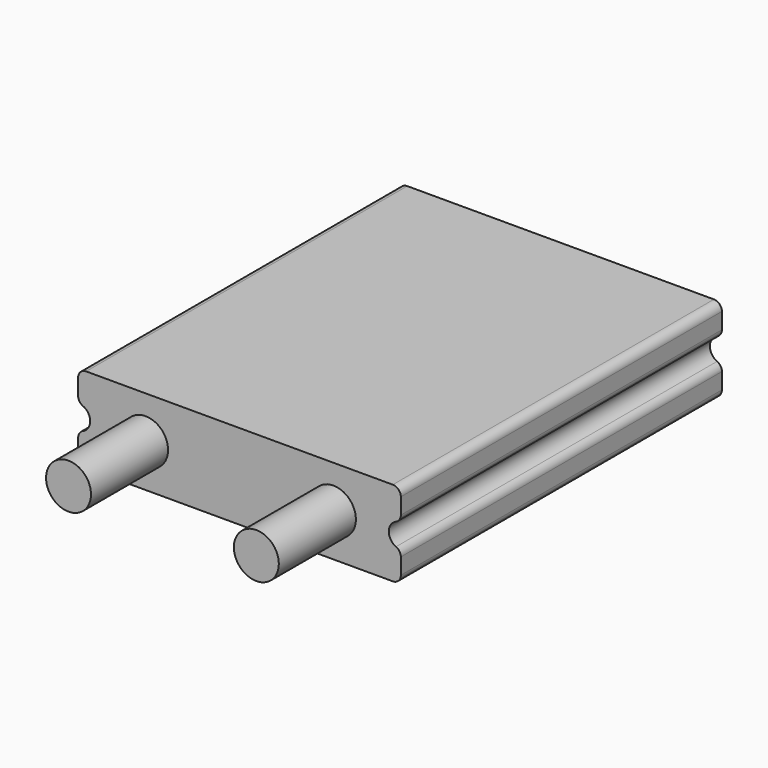
from build123d import *

# Parameters (mm, degrees)
F1_DEPTH = 25
F2_R     = 1.4
F3_DEPTH = 6
F4_R     = 0.5


with BuildPart() as f1:
    # F0 (on Front) → F1 (new body)
    with BuildSketch(Plane.XZ):
        with BuildLine():
            Line((0, 1.9), (0, 0))
            Line((0, 0), (20.1, 0))
            Line((20.1, 0), (20.1, 1.9))
            ThreePointArc((20.1, 1.9), (19.35, 2.65), (20.1, 3.4))
            Line((20.1, 3.4), (20.1, 5.3))
            Line((20.1, 5.3), (0, 5.3))
            Line((0, 5.3), (0, 3.4))
            ThreePointArc((0, 3.4), (0.75, 2.65), (0, 1.9))
        make_face()
    extrude(amount=F1_DEPTH)

    # F2 (on face) → F3 (join)
    with BuildSketch(Plane.XZ.offset(25)):
        with Locations((4.2, 2.65)):
            Circle(F2_R)
        with Locations((15.9, 2.65)):
            Circle(F2_R)
    extrude(amount=F3_DEPTH)

    # F4
    f4_edges = [f1.edges().sort_by_distance(p)[0] for p in [
        (20.1, -12.5, 5.3),
        (20.1, -12.5, 3.4),
        (20.1, -12.5, 1.9),
        (20.1, -12.5, 0),
        (0, -12.5, 5.3),
        (0, -12.5, 0),
        (0, -12.5, 1.9),
        (0, -12.5, 3.4),
    ]]
    fillet(f4_edges, radius=F4_R)


solid = f1.part
